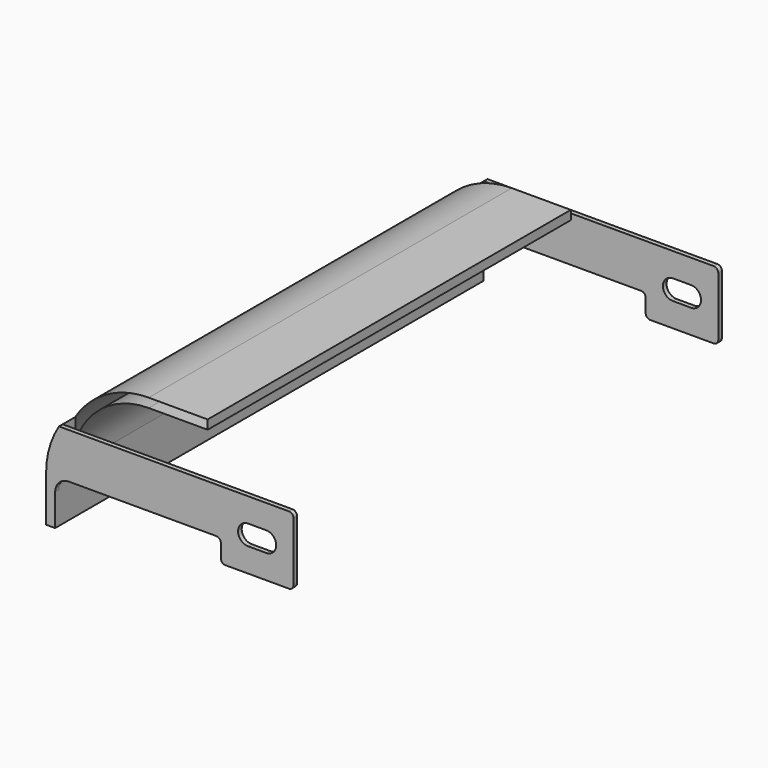
from build123d import *

# Parameters (mm, degrees)
PAD002_DEPTH = 100
PAD003_DEPTH = 3.5
PAD004_DEPTH = 12.5
PAD005_DEPTH = 1
PAD006_DEPTH = 1


with BuildPart() as part:
    # Sketch008 → Pad002 (new body)
    with BuildSketch(Plane.XZ):
        with BuildLine():
            Line((20, 29), (7, 29))
            ThreePointArc((7, 29), (-6.435029, 23.435029), (-12, 10))
            Line((-12, 10), (-12, 0))
            Line((-12, 0), (-10, 0))
            Line((-10, 0), (-10, 10))
            ThreePointArc((7, 27), (-5.020815, 22.020815), (-10, 10))
            Line((7, 27), (20, 27))
            Line((20, 27), (20, 29))
        make_face()
    extrude(amount=PAD002_DEPTH)

    # Sketch009 (on Face10 of Pad002) → Pad003 (join)
    with BuildSketch(Plane.XZ.offset(100)):
        with BuildLine():
            ThreePointArc((-9.155494, 15.291503), (-9.787546, 12.679234), (-10, 10))
            Line((-10, 10), (-10, 0))
            Line((-10, 0), (-12, 0))
            Line((-12, 0), (-12, 10))
            ThreePointArc((-9.155494, 20), (-11.275043, 15.198346), (-12, 10))
            Line((-9.155494, 20), (-9.155494, 15.291503))
        make_face()
    extrude(amount=PAD003_DEPTH)

    # Sketch010 (on Face3 of Pad003) → Pad004 (join)
    with BuildSketch(Plane(origin=(0, 0, 0), x_dir=(1, 0, 0), z_dir=(0, 1, 0))):
        with BuildLine():
            ThreePointArc((-10, -10), (-9.787546, -12.679234), (-9.155494, -15.291503))
            Line((-9.155494, -20), (-9.155494, -15.291503))
            ThreePointArc((-12, -10), (-11.275043, -15.198346), (-9.155494, -20))
            Line((-12, 0), (-12, -10))
            Line((-10, 0), (-12, 0))
            Line((-10, -10), (-10, 0))
        make_face()
    extrude(amount=PAD004_DEPTH)

    # Sketch011 (on Face6 of Pad004) → Pad005 (join)
    with BuildSketch(Plane.XZ.offset(103.5)):
        with BuildLine():
            ThreePointArc((-9.155494, 20), (-11.275043, 15.198346), (-12, 10))
            Line((-12, 10), (-12, 0))
            Line((-12, 0), (-10, 0))
            Line((-10, 0), (-10, 7))
            ThreePointArc((-7, 10), (-9.12132, 9.12132), (-10, 7))
            Line((25.5, 10), (-7, 10))
            ThreePointArc((26.5, 9), (26.207107, 9.707107), (25.5, 10))
            Line((26.5, 6), (26.5, 9))
            ThreePointArc((26.5, 6), (26.792893, 5.292893), (27.5, 5))
            Line((34.5, 5), (27.5, 5))
            Line((41.5, 5), (34.5, 5))
            ThreePointArc((41.5, 5), (42.207107, 5.292893), (42.5, 6))
            Line((42.5, 19), (42.5, 6))
            ThreePointArc((42.5, 19), (42.207107, 19.707107), (41.5, 20))
            Line((-9.155494, 20), (41.5, 20))
        make_face()
        with BuildLine():
            ThreePointArc((32.5, 14.7), (30.3, 12.5), (32.5, 10.3))
            Line((32.5, 10.3), (36.5, 10.3))
            ThreePointArc((36.5, 10.3), (38.7, 12.5), (36.5, 14.7))
            Line((32.5, 14.7), (36.5, 14.7))
        make_face(mode=Mode.SUBTRACT)
    extrude(amount=PAD005_DEPTH)

    # Sketch012 (on Face6 of Pad005) → Pad006 (join)
    with BuildSketch(Plane(origin=(0, 12.5, 0), x_dir=(1, 0, 0), z_dir=(0, 1, 0))):
        with BuildLine():
            Line((-12, 0), (-10, 0))
            Line((-10, -7), (-10, 0))
            ThreePointArc((-10, -7), (-9.12132, -9.12132), (-7, -10))
            Line((-7, -10), (25.5, -10))
            ThreePointArc((25.5, -10), (26.207107, -9.707107), (26.5, -9))
            Line((26.5, -9), (26.5, -6))
            ThreePointArc((27.5, -5), (26.792893, -5.292893), (26.5, -6))
            Line((27.5, -5), (41.5, -5))
            ThreePointArc((42.5, -6), (42.207107, -5.292893), (41.5, -5))
            Line((42.5, -6), (42.5, -19))
            ThreePointArc((41.5, -20), (42.207107, -19.707107), (42.5, -19))
            Line((41.5, -20), (-9.155494, -20))
            ThreePointArc((-12, -10), (-11.275043, -15.198346), (-9.155494, -20))
            Line((-12, 0), (-12, -10))
        make_face()
        with BuildLine():
            ThreePointArc((32.5, -10.3), (30.3, -12.5), (32.5, -14.7))
            Line((32.5, -14.7), (36.5, -14.7))
            ThreePointArc((36.5, -14.7), (38.7, -12.5), (36.5, -10.3))
            Line((32.5, -10.3), (36.5, -10.3))
        make_face(mode=Mode.SUBTRACT)
    extrude(amount=PAD006_DEPTH)


solid = part.part
